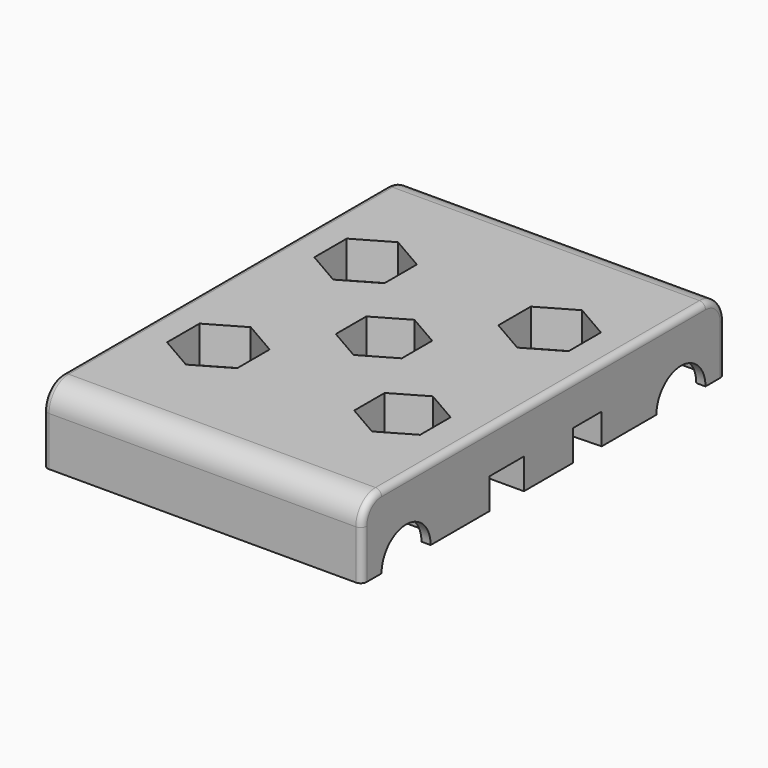
from build123d import *

# Parameters (mm, degrees)
PAD001_DEPTH            = 5
CYLINDER001_R           = 7.75
CYLINDER001_DEPTH       = 24.5
CYLINDER001_PITCH_ANGLE = -90
CYLINDER_R              = 5
CYLINDER_DEPTH          = 90
CYLINDER_PITCH_ANGLE    = -90
SKETCH_W                = 52
SKETCH_H                = 74
PAD_DEPTH               = 12
POCKET_DEPTH            = 6
SKETCH004_R             = 3.3
POCKET001_DEPTH         = 6.001
POCKET002_DEPTH         = 5
SKETCH006_W             = 52
SKETCH006_H             = 7
POCKET003_DEPTH         = 5
FILLET_R                = 4
FILLET001_R             = 4
FILLET002_R             = 1
FILLET003_R             = 1


with BuildPart() as beltholderpad:
    # Sketch003 → Pad001 (new body)
    with BuildSketch(Plane.XY):
        with BuildLine():
            ThreePointArc((0, 6), (0.2595, 6.063605), (0.460174, 6.24))
            ThreePointArc((0.460174, 6.24), (0.541791, 6.413802), (0.588686, 6.6))
            ThreePointArc((0.738686, 6.75), (0.63262, 6.706066), (0.588686, 6.6))
            Line((0.738686, 6.75), (1.261311, 6.75))
            ThreePointArc((1.411314, 6.6), (1.367379, 6.706067), (1.261311, 6.75))
            ThreePointArc((1.411314, 6.6), (1.458209, 6.413802), (1.539826, 6.24))
            ThreePointArc((1.539826, 6.24), (1.7405, 6.063605), (2, 6))
            Line((2, 6), (2, 7.38))
            Line((0, 7.38), (2, 7.38))
            Line((0, 6), (0, 7.38))
        make_face()
    extrude(amount=PAD001_DEPTH)


with BuildPart() as clone_of_beltholderpad:
    # Clone base: copy of BeltHolderPad
    add(beltholderpad.part)


with BuildPart() as clone_of_beltholderpad_1:
    # Clone placement: moved
    add(clone_of_beltholderpad.part.moved(Location((2, 0, 0))))


with BuildPart() as beltholderfusion1:
    # Fusion003 base: copy of BeltHolderPad
    add(beltholderpad.part)

    # Fusion003: union Clone of BeltHolderPad
    add(clone_of_beltholderpad_1.part)


with BuildPart() as clone_of_beltholderfusion1:
    # Clone001 base: copy of BeltHolderFusion1
    add(beltholderfusion1.part)


with BuildPart() as clone_of_beltholderfusion1_1:
    # Clone001 placement: moved
    add(clone_of_beltholderfusion1.part.moved(Location((4, 0, 0))))


with BuildPart() as beltholderfusion2:
    # Fusion004 base: copy of BeltHolderFusion1
    add(beltholderfusion1.part)

    # Fusion004: union Clone of BeltHolderFusion1
    add(clone_of_beltholderfusion1_1.part)


with BuildPart() as clone_of_beltholderfusion2:
    # Clone002 base: copy of BeltHolderFusion2
    add(beltholderfusion2.part)


with BuildPart() as clone_of_beltholderfusion2_1:
    # Clone002 placement: moved
    add(clone_of_beltholderfusion2.part.moved(Location((8, 0, 0))))


with BuildPart() as beltholderfusion3:
    # Fusion005 base: copy of BeltHolderFusion2
    add(beltholderfusion2.part)

    # Fusion005: union Clone of BeltHolderFusion2
    add(clone_of_beltholderfusion2_1.part)


with BuildPart() as clone_of_beltholderfusion3:
    # Clone003 base: copy of BeltHolderFusion3
    add(beltholderfusion3.part)


with BuildPart() as clone_of_beltholderfusion3_1:
    # Clone003 placement: moved
    add(clone_of_beltholderfusion3.part.moved(Location((16, 0, 0))))


with BuildPart() as beltholderfusion4:
    # Fusion006 base: copy of BeltHolderFusion3
    add(beltholderfusion3.part)

    # Fusion006: union Clone of BeltHolderFusion3
    add(clone_of_beltholderfusion3_1.part)


with BuildPart() as clone_of_beltholderfusion4:
    # Clone004 base: copy of BeltHolderFusion4
    add(beltholderfusion4.part)


with BuildPart() as clone_of_beltholderfusion4_1:
    # Clone004 placement: moved
    add(clone_of_beltholderfusion4.part.moved(Location((32, 0, 0))))


with BuildPart() as beltholderfusion5:
    # Fusion007 base: copy of BeltHolderFusion4
    add(beltholderfusion4.part)

    # Fusion007: union Clone of BeltHolderFusion4
    add(clone_of_beltholderfusion4_1.part)


with BuildPart() as obj1:
    # Part__Mirroring003: instance of BeltHolderFusion5
    add(beltholderfusion5.part.mirror(Plane(origin=(0, 0, 0), x_dir=(0, -1, 0), z_dir=(1, 0, 0))))

    # Fusion008: union BeltHolderFusion5
    add(beltholderfusion5.part)


with BuildPart() as bearingcylinder:
    # Cylinder001 → Cylinder001 (new body)
    with BuildSketch(Plane.XY):
        Circle(CYLINDER001_R)
    extrude(amount=CYLINDER001_DEPTH)


with BuildPart() as bearingcylinder_1:
    # Cylinder001 pitch: moved
    add(bearingcylinder.part.rotate(Axis((0, 0, 0), (0, 1, 0)), CYLINDER001_PITCH_ANGLE))


with BuildPart() as bearingcylinder_2:
    # Cylinder001 placement: moved
    add(bearingcylinder_1.part.moved(Location((0, 28, 0))))


with BuildPart() as bearingfusion1:
    # Part__Mirroring001: instance of BearingCylinder
    add(bearingcylinder_2.part.mirror(Plane(origin=(0, 0, 0), x_dir=(0, -1, 0), z_dir=(1, 0, 0))))

    # Fusion001: union BearingCylinder
    add(bearingcylinder_2.part)


with BuildPart() as obj2:
    # Part__Mirroring002: instance of BearingFusion1
    add(bearingfusion1.part.mirror(Plane(origin=(0, 0, 0), x_dir=(1, 0, 0), z_dir=(0, 1, 0))))

    # Fusion002: union BearingFusion1
    add(bearingfusion1.part)


with BuildPart() as rodcylinder:
    # Cylinder → Cylinder (new body)
    with BuildSketch(Plane.XY):
        Circle(CYLINDER_R)
    extrude(amount=CYLINDER_DEPTH)


with BuildPart() as rodcylinder_1:
    # Cylinder pitch: moved
    add(rodcylinder.part.rotate(Axis((0, 0, 0), (0, 1, 0)), CYLINDER_PITCH_ANGLE))


with BuildPart() as rodcylinder_2:
    # Cylinder placement: moved
    add(rodcylinder_1.part.moved(Location((45, 28, 0))))


with BuildPart() as rodcylinderfusion:
    # Part__Mirroring: instance of RodCylinder
    add(rodcylinder_2.part.mirror(Plane(origin=(0, 0, 0), x_dir=(1, 0, 0), z_dir=(0, 1, 0))))

    # Fusion: union RodCylinder
    add(rodcylinder_2.part)


with BuildPart() as fillet003:
    # Sketch → Pad (new body)
    with BuildSketch(Plane.XY):
        Rectangle(SKETCH_W, SKETCH_H)
    extrude(amount=PAD_DEPTH)

    # Cut: cut RodCylinderFusion
    add(rodcylinderfusion.part, mode=Mode.SUBTRACT)

    # Cut001: cut obj2
    add(obj2.part, mode=Mode.SUBTRACT)

    # Sketch001 (on Face5 of Cut001) → Pocket (cut)
    with BuildSketch(Plane.XY.offset(12)):
        Polygon((-20.715768, 11.7), (-15, 8.4), (-9.284232, 11.7), (-9.284232, 18.3), (-15, 21.6), (-20.715768, 18.3), align=None)
        Polygon((20.715768, 18.3), (15, 21.6), (9.284232, 18.3), (9.284232, 11.7), (15, 8.4), (20.715768, 11.7), align=None)
        Polygon((5.369358, 3.1), (0, 6.2), (-5.369358, 3.1), (-5.369358, -3.1), (0, -6.2), (5.369358, -3.1), align=None)
        Polygon((-9.284232, -11.7), (-15, -8.4), (-20.715768, -11.7), (-20.715768, -18.3), (-15, -21.6), (-9.284232, -18.3), align=None)
        Polygon((20.369358, -11.9), (15, -8.8), (9.630642, -11.9), (9.630642, -18.1), (15, -21.2), (20.369358, -18.1), align=None)
    extrude(amount=-POCKET_DEPTH, mode=Mode.SUBTRACT)

    # Cut002: cut obj1
    add(obj1.part, mode=Mode.SUBTRACT)

    # Sketch004 (on Face274 of Cut002) → Pocket001 (cut, through all)
    with BuildSketch(Plane.XY.offset(6)):
        with Locations((-15, 15)):
            Circle(SKETCH004_R)
        Circle(SKETCH004_R)
        with Locations((15, 15)):
            Circle(SKETCH004_R)
        with Locations((15, -15)):
            Circle(SKETCH004_R)
        with Locations((-15, -15)):
            Circle(SKETCH004_R)
    extrude(amount=-POCKET001_DEPTH, mode=Mode.SUBTRACT)

    # Sketch005 (on Face13 of Pocket001) → Pocket002 (cut)
    with BuildSketch(Plane(origin=(0, 0, 0), x_dir=(1, 0, 0), z_dir=(0, 0, -1))):
        Polygon((-26, -7.38), (26, -7.38), (26, -11.85), (0, -11), (-26, -11.85), align=None)
    extrude(amount=-POCKET002_DEPTH, mode=Mode.SUBTRACT)

    # Sketch006 (on Face9 of Pocket002) → Pocket003 (cut)
    with BuildSketch(Plane(origin=(0, 0, 0), x_dir=(1, 0, 0), z_dir=(0, 0, -1))):
        with Locations((0, 7.5)):
            Rectangle(SKETCH006_W, SKETCH006_H)
    extrude(amount=-POCKET003_DEPTH, mode=Mode.SUBTRACT)

    # Fillet
    fillet_edges = [fillet003.edges().sort_by_distance(p)[0] for p in [
        (0, 37, 12),
    ]]
    fillet(fillet_edges, radius=FILLET_R)

    # Fillet001
    fillet001_edges = [fillet003.edges().sort_by_distance(p)[0] for p in [
        (0, -37, 12),
    ]]
    fillet(fillet001_edges, radius=FILLET001_R)

    # Fillet002
    fillet002_edges = [fillet003.edges().sort_by_distance(p)[0] for p in [
        (26, 0, 12),
        (26, -35.828427, 10.828427),
        (26, -37, 4),
        (26, 35.828427, 10.828427),
        (26, 37, 4),
    ]]
    fillet(fillet002_edges, radius=FILLET002_R)

    # Fillet003
    fillet003_edges = [fillet003.edges().sort_by_distance(p)[0] for p in [
        (-26, 37, 4),
        (-26, 35.828427, 10.828427),
        (-26, 0, 12),
        (-26, -35.828427, 10.828427),
        (-26, -37, 4),
    ]]
    fillet(fillet003_edges, radius=FILLET003_R)


solid = fillet003.part
